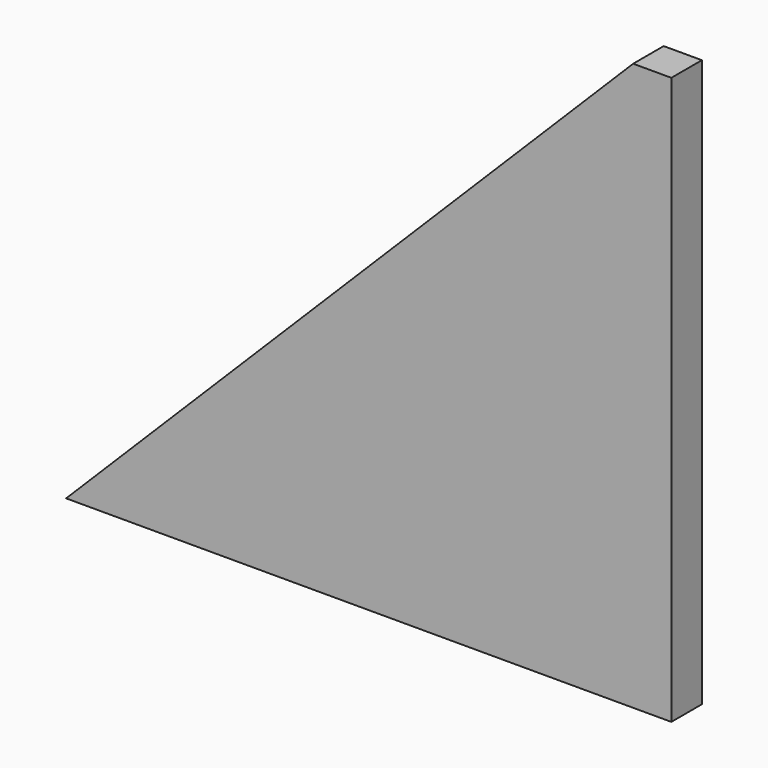
from build123d import *

# Parameters (mm, degrees)
F0_W     = 3.175
F0_H     = 47.147206
F1_DEPTH = 3.175


with BuildPart() as f1:
    # F0 (on Front) → F1 (new body)
    with BuildSketch(Plane.XZ):
        Polygon((6.233828, 49.692498), (-40.913379, 2.545292), (6.233828, 2.545292), align=None)
        with Locations((7.821328, 26.118895)):
            Rectangle(F0_W, F0_H)
    extrude(amount=F1_DEPTH)


solid = f1.part
